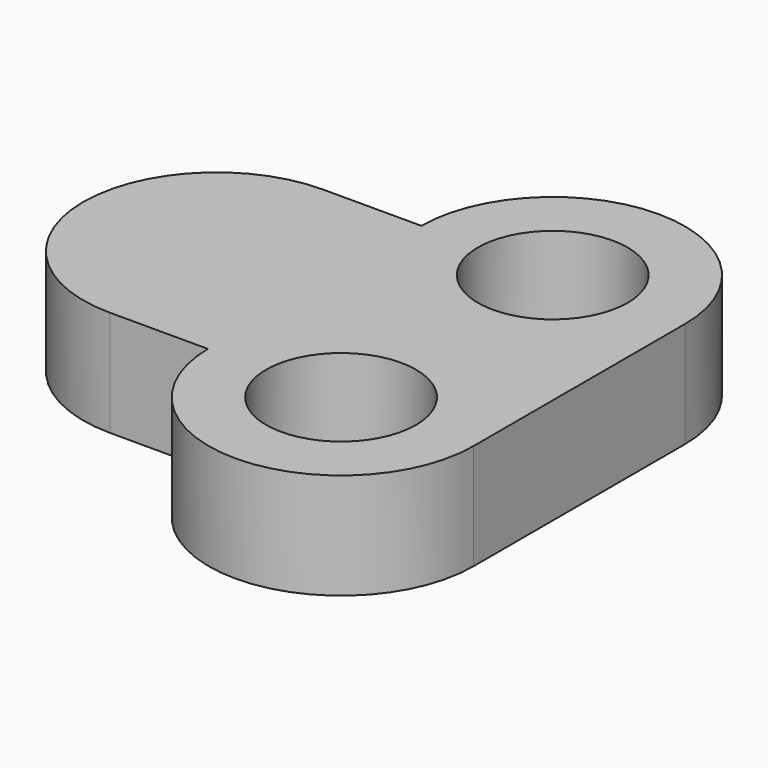
from build123d import *

# Parameters (mm, degrees)
F0_R     = 2.2479
F1_DEPTH = 3.175


with BuildPart() as f1:
    # F0 (on Top) → F1 (new body)
    with BuildSketch(Plane.XY):
        with BuildLine():
            Line((2.941511, 0), (0, 0))
            Line((0, 0), (0, -8))
            Line((0, -8), (2.941511, -8))
            ThreePointArc((2.941511, -8), (6.925763, -11.937469), (10.878887, -7.96875))
            Line((10.878887, -7.96875), (10.878887, -0.03125))
            ThreePointArc((10.878887, -0.03125), (6.925763, 3.937469), (2.941511, 0))
        make_face()
        with Locations((6.910137, -7.96875)):
            Circle(F0_R, mode=Mode.SUBTRACT)
        with Locations((6.910137, -0.03125)):
            Circle(F0_R, mode=Mode.SUBTRACT)
        with BuildLine():
            Line((0, -8), (0, 0))
            ThreePointArc((0, 0), (-4, -4), (0, -8))
        make_face()
    extrude(amount=F1_DEPTH)


solid = f1.part
